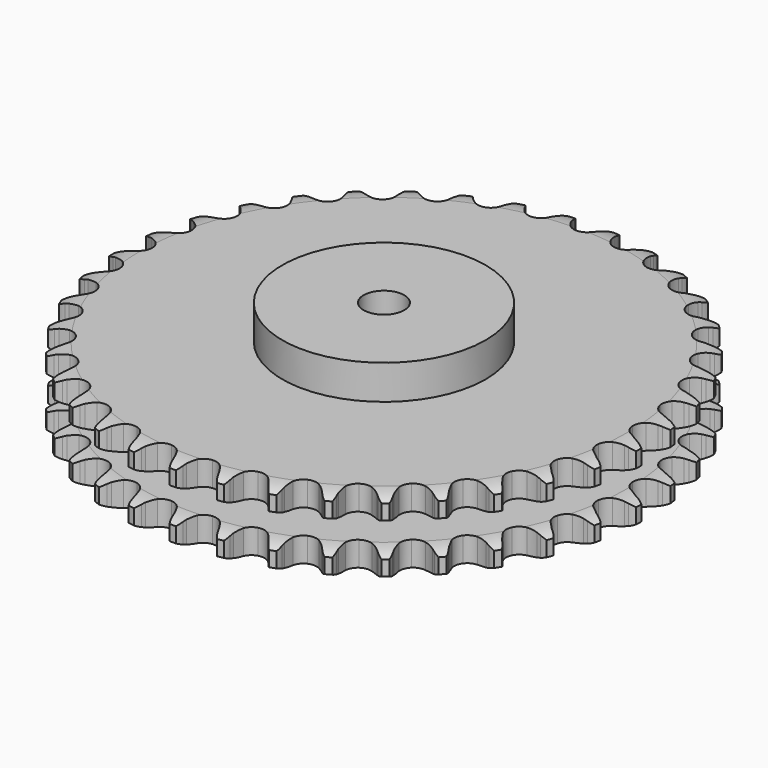
from build123d import *

# Parameters (mm, degrees)
PAD_DEPTH         = 54.6
SKETCH001_R       = 75
PAD001_DEPTH      = 80
SKETCH002_R       = 15
POCKET_DEPTH      = 0.001
POCKET_DEPTH_BACK = 80.001


with BuildPart() as part:
    # Sprocket → Pad (new body)
    with BuildSketch(Plane.XY):
        with BuildLine():
            ThreePointArc((-16.760043, 196.916247), (-13.948654, 193.906801), (-12.029583, 190.262924))
            Line((-12.029583, 190.262924), (-11.100423, 187.728692))
            ThreePointArc((-11.100423, 187.728692), (-9.632855, 184.471838), (-7.713495, 181.459046))
            ThreePointArc((-7.713495, 181.459046), (-4.316661, 178.605349), (0, 177.581386))
            ThreePointArc((0, 177.581386), (4.316661, 178.605349), (7.713495, 181.459046))
            ThreePointArc((7.713495, 181.459046), (9.632855, 184.471838), (11.100423, 187.728692))
            Line((11.100423, 187.728692), (12.029583, 190.262924))
            ThreePointArc((12.029583, 190.262924), (13.948654, 193.906801), (16.760043, 196.916247))
            ThreePointArc((16.760043, 196.916247), (19.022393, 193.474962), (20.298042, 189.559175))
            Line((20.298042, 189.559175), (20.785549, 186.904367))
            ThreePointArc((20.785549, 186.904367), (21.681597, 183.446339), (23.064184, 180.15251))
            ThreePointArc((23.064184, 180.15251), (25.929881, 176.765793), (30.0114, 175.027039))
            ThreePointArc((30.0114, 175.027039), (34.439021, 175.306755), (38.269271, 177.545336))
            Line((38.269271, 177.545336), (42.667057, 183.152405))
            ThreePointArc((42.667057, 183.152405), (43.307294, 184.341043), (44.011138, 185.493156))
            ThreePointArc((44.011138, 185.493156), (46.518424, 188.760294), (49.797972, 191.251325))
            ThreePointArc((49.797972, 191.251325), (51.4462, 187.477201), (52.041729, 183.402153))
            Line((52.041729, 183.402153), (52.073559, 180.703143))
            ThreePointArc((52.073559, 180.703143), (52.372308, 177.143423), (53.178349, 173.663314))
            ThreePointArc((53.178349, 173.663314), (55.430467, 169.841007), (59.159426, 167.437483))
            ThreePointArc((59.159426, 167.437483), (63.570632, 166.964904), (67.72411, 168.52397))
            Line((67.72411, 168.52397), (73.006237, 173.307157))
            ThreePointArc((73.006237, 173.307157), (73.838145, 174.370497), (74.726574, 175.387087))
            ThreePointArc((74.726574, 175.387087), (77.749943, 178.183497), (81.403304, 180.084451))
            ThreePointArc((81.403304, 180.084451), (82.389994, 176.086062), (82.288271, 171.968985))
            Line((82.288271, 171.968985), (81.863508, 169.303418))
            ThreePointArc((81.863508, 169.303418), (81.556364, 165.744413), (81.762669, 162.178141))
            ThreePointArc((81.762669, 162.178141), (83.33642, 158.030204), (86.605544, 155.031056))
            ThreePointArc((86.605544, 155.031056), (90.873432, 153.819777), (95.230649, 154.654476))
            Line((95.230649, 154.654476), (101.24516, 158.476178))
            ThreePointArc((101.24516, 158.476178), (102.244807, 159.383629), (103.292262, 160.235451))
            ThreePointArc((103.292262, 160.235451), (106.744739, 162.480685), (110.666812, 163.736875))
            ThreePointArc((110.666812, 163.736875), (110.963578, 159.629248), (110.167528, 155.588582))
            Line((110.167528, 155.588582), (109.298393, 153.033142))
            ThreePointArc((109.298393, 153.033142), (108.394192, 149.577238), (107.994827, 146.027398))
            ThreePointArc((107.994827, 146.027398), (108.844935, 141.673161), (111.560178, 138.164667))
            ThreePointArc((111.560178, 138.164667), (115.561969, 136.249535), (119.997576, 136.335854))
            Line((119.997576, 136.335854), (126.571445, 139.086127))
            ThreePointArc((126.571445, 139.086127), (127.710073, 139.811584), (128.886419, 140.474133))
            ThreePointArc((128.886419, 140.474133), (132.668682, 142.1036), (136.746637, 142.678887))
            ThreePointArc((136.746637, 142.678887), (136.344942, 138.580191), (134.877467, 134.73218))
            Line((134.877467, 134.73218), (133.588961, 132.360382))
            ThreePointArc((133.588961, 132.360382), (132.113716, 129.106998), (131.120169, 125.675712))
            ThreePointArc((131.120169, 125.675712), (131.22218, 121.240438), (133.305428, 117.323533))
            ThreePointArc((133.305428, 117.323533), (136.925998, 114.759642), (141.312392, 114.095098))
            Line((141.312392, 114.095098), (148.256499, 115.694822))
            ThreePointArc((148.256499, 115.694822), (149.501352, 116.217414), (150.772749, 116.67163))
            ThreePointArc((150.772749, 116.67163), (154.775989, 117.638453), (158.89251, 117.516287))
            ThreePointArc((158.89251, 117.516287), (157.80391, 113.544434), (155.707226, 109.999777))
            Line((155.707226, 109.999777), (154.036419, 107.879854))
            ThreePointArc((154.036419, 107.879854), (152.032569, 104.922585), (150.473423, 101.708565))
            ThreePointArc((150.473423, 101.708565), (149.824402, 97.319848), (151.215724, 93.107214))
            ThreePointArc((151.215724, 93.107214), (154.350916, 89.968323), (158.561907, 88.572034))
            Line((158.561907, 88.572034), (165.676484, 88.975187))
            ThreePointArc((165.676484, 88.975187), (166.99175, 89.279882), (168.321622, 89.512697))
            ThreePointArc((168.321622, 89.512697), (172.430672, 89.789062), (176.467335, 88.972958))
            ThreePointArc((176.467335, 88.972958), (174.723147, 85.24221), (172.057572, 82.102882))
            Line((172.057572, 82.102882), (170.052529, 80.29582))
            ThreePointArc((170.052529, 80.29582), (167.577722, 77.71974), (165.497831, 74.815448))
            ThreePointArc((165.497831, 74.815448), (164.116449, 70.599544), (164.775819, 66.21237))
            ThreePointArc((164.775819, 66.21237), (167.335439, 62.588779), (171.249884, 60.500913))
            Line((171.249884, 60.500913), (178.330258, 59.695898))
            ThreePointArc((178.330258, 59.695898), (179.678099, 59.773929), (181.028188, 59.778646))
            ThreePointArc((181.028188, 59.778646), (185.124839, 59.356603), (188.965516, 57.870039))
            ThreePointArc((188.965516, 57.870039), (186.615917, 54.487723), (183.458135, 51.844036))
            Line((183.458135, 51.844036), (181.176538, 50.401821))
            ThreePointArc((181.176538, 50.401821), (178.301969, 48.28104), (175.761168, 45.770027))
            ThreePointArc((175.761168, 45.770027), (173.687164, 41.848219), (173.595614, 37.412717))
            ThreePointArc((173.595614, 37.412717), (175.506026, 33.40867), (179.011315, 30.689292))
            Line((179.011315, 30.689292), (185.853796, 28.699267))
            ThreePointArc((185.853796, 28.699267), (187.195436, 28.548389), (188.526902, 28.324872))
            ThreePointArc((188.526902, 28.324872), (192.493301, 27.216563), (196.027503, 25.102304))
            ThreePointArc((196.027503, 25.102304), (193.140087, 22.165724), (189.580941, 20.093731))
            Line((189.580941, 20.093731), (187.088427, 19.057853))
            ThreePointArc((187.088427, 19.057853), (183.896793, 17.453382), (180.968175, 15.407885))
            ThreePointArc((180.968175, 15.407885), (178.261216, 11.892998), (177.421379, 7.536768))
            ThreePointArc((177.421379, 7.536768), (178.627624, 3.267454), (181.622915, -0.005205))
            Line((181.622915, -0.005205), (188.030658, -3.12299))
            ThreePointArc((188.030658, -3.12299), (189.327501, -3.498435), (190.602041, -3.943756))
            ThreePointArc((190.602041, -3.943756), (194.324082, -5.706448), (197.450136, -8.387579))
            ThreePointArc((197.450136, -8.387579), (194.107968, -10.793943), (190.249849, -12.234633))
            Line((190.249849, -12.234633), (187.618123, -12.834375))
            ThreePointArc((187.618123, -12.834375), (184.201241, -13.876378), (180.969058, -15.397513))
            ThreePointArc((180.969058, -15.397513), (177.707017, -18.404364), (176.143054, -22.556))
            ThreePointArc((176.143054, -22.556), (176.610431, -26.96776), (179.009556, -30.699552))
            Line((179.009556, -30.699552), (184.79822, -34.855404))
            ThreePointArc((184.79822, -34.855404), (186.012959, -35.444617), (187.193906, -36.09893))
            ThreePointArc((187.193906, -36.09893), (190.564512, -38.465295), (193.192487, -41.636166))
            ThreePointArc((193.192487, -41.636166), (189.491716, -43.443087), (185.445615, -44.21103))
            Line((185.445615, -44.21103), (182.750387, -44.357381))
            ThreePointArc((182.750387, -44.357381), (179.206554, -44.806939), (175.763791, -45.759953))
            ThreePointArc((175.763791, -45.759953), (172.04051, -48.172265), (169.797414, -51.999873))
            ThreePointArc((169.797414, -51.999873), (169.512477, -56.427161), (171.246417, -60.510728))
            Line((171.246417, -60.510728), (176.249474, -65.585091))
            ThreePointArc((176.249474, -65.585091), (177.347163, -66.371121), (178.400543, -67.215604))
            ThreePointArc((178.400543, -67.215604), (181.322749, -70.117566), (183.377043, -73.686957))
            ThreePointArc((183.377043, -73.686957), (179.424133, -74.842454), (175.306448, -74.915555))
            Line((175.306448, -74.915555), (172.625256, -74.604306))
            ThreePointArc((172.625256, -74.604306), (169.056422, -74.448487), (165.502119, -74.805963))
            ThreePointArc((165.502119, -74.805963), (161.424712, -76.554339), (158.567011, -79.947805))
            ThreePointArc((158.567011, -79.947805), (157.537958, -84.263256), (158.55683, -88.581121))
            Line((158.55683, -88.581121), (162.630352, -94.428015))
            ThreePointArc((162.630352, -94.428015), (163.579411, -95.388248), (164.474922, -96.398607))
            ThreePointArc((164.474922, -96.398607), (166.86466, -99.752682), (168.286175, -103.617907))
            ThreePointArc((168.286175, -103.617907), (164.194844, -104.088739), (160.124034, -103.464897))
            Line((160.124034, -103.464897), (157.53401, -102.705))
            ThreePointArc((157.53401, -102.705), (154.042843, -101.948287), (150.479252, -101.699941))
            ThreePointArc((150.479252, -101.699941), (146.165018, -102.734083), (142.774924, -105.595783))
            ThreePointArc((142.774924, -105.595783), (141.031358, -109.675249), (141.305852, -114.103197))
            Line((141.305852, -114.103197), (144.33265, -120.554417))
            ThreePointArc((144.33265, -120.554417), (145.105778, -121.66123), (145.817656, -122.808397))
            ThreePointArc((145.817656, -122.808397), (147.606179, -126.518095), (148.35402, -130.56796))
            ThreePointArc((148.35402, -130.56796), (144.241969, -130.34058), (140.335143, -129.037742))
            Line((140.335143, -129.037742), (137.910797, -127.851059))
            ThreePointArc((137.910797, -127.851059), (134.597733, -126.515221), (131.127372, -125.668197))
            ThreePointArc((131.127372, -125.668197), (126.700423, -125.958355), (122.875463, -128.205964))
            ThreePointArc((122.875463, -128.205964), (120.467544, -131.932086), (119.989762, -136.342731))
            Line((119.989762, -136.342731), (121.882761, -143.212688))
            ThreePointArc((121.882761, -143.212688), (122.457716, -144.43424), (122.965482, -145.685214))
            ThreePointArc((122.965482, -145.685214), (124.101336, -149.643813), (124.153991, -153.76181))
            ThreePointArc((124.153991, -153.76181), (120.139514, -152.842761), (116.509066, -150.898406))
            Line((116.509066, -150.898406), (114.320142, -149.319076))
            ThreePointArc((114.320142, -149.319076), (111.280491, -147.442542), (108.003196, -146.021208))
            ThreePointArc((108.003196, -146.021208), (103.590888, -145.559034), (99.441098, -147.127892))
            ThreePointArc((99.441098, -147.127892), (96.438097, -150.393477), (95.221785, -154.659933))
            Line((95.221785, -154.659933), (95.926527, -161.75099))
            ThreePointArc((95.926527, -161.75099), (96.286768, -163.052139), (96.575815, -164.370932))
            ThreePointArc((96.575815, -164.370932), (97.026324, -168.46455), (96.382276, -172.532212))
            ThreePointArc((96.382276, -172.532212), (92.580865, -170.947933), (89.331235, -168.417997))
            Line((89.331235, -168.417997), (87.440704, -166.491455))
            ThreePointArc((87.440704, -166.491455), (84.761912, -164.128209), (81.771964, -162.173454))
            ThreePointArc((81.771964, -162.173454), (77.501231, -160.972245), (73.145994, -161.817218))
            ThreePointArc((73.145994, -161.817218), (69.634302, -164.528321), (67.714451, -168.527851))
            Line((67.714451, -168.527851), (67.210661, -175.636011))
            ThreePointArc((67.210661, -175.636011), (67.345825, -176.979325), (67.407837, -178.327997))
            ThreePointArc((67.407837, -178.327997), (67.160042, -182.43887), (65.83782, -186.339177))
            ThreePointArc((65.83782, -186.339177), (62.358832, -184.135245), (59.583506, -181.092509))
            Line((59.583506, -181.092509), (58.045757, -178.874178))
            ThreePointArc((58.045757, -178.874178), (55.804887, -176.092207), (53.188302, -173.660266))
            ThreePointArc((53.188302, -173.660266), (49.182005, -171.754577), (44.746613, -171.851358))
            ThreePointArc((44.746613, -171.851358), (40.827254, -173.929985), (38.259095, -177.547529))
            Line((38.259095, -177.547529), (36.561267, -184.468304))
            ThreePointArc((36.561267, -184.468304), (36.467466, -185.815138), (36.300659, -187.154891))
            ThreePointArc((36.300659, -187.154891), (35.361687, -191.164755), (33.399329, -194.785503))
            ThreePointArc((33.399329, -194.785503), (30.34285, -192.025321), (28.121669, -188.55732))
            Line((28.121669, -188.55732), (26.980939, -186.111016))
            ThreePointArc((26.980939, -186.111016), (25.242457, -182.990353), (23.074509, -180.151188))
            ThreePointArc((23.074509, -180.151188), (19.447902, -177.595843), (15.059954, -176.941647))
            ThreePointArc((15.059954, -176.941647), (10.845681, -178.328), (7.703095, -181.459488))
            Line((7.703095, -181.459488), (4.860072, -187.993779))
            ThreePointArc((4.860072, -187.993779), (4.540004, -189.305388), (4.149177, -190.59768))
            ThreePointArc((4.149177, -190.59768), (2.546041, -194.391178), (0, -197.628205))
            ThreePointArc((0, -197.628205), (-2.546041, -194.391178), (-4.149177, -190.59768))
            Line((-4.149177, -190.59768), (-4.860072, -187.993779))
            ThreePointArc((-4.860072, -187.993779), (-6.046152, -184.624199), (-7.703095, -181.459488))
            ThreePointArc((-7.703095, -181.459488), (-10.845681, -178.328), (-15.059954, -176.941647))
            ThreePointArc((-15.059954, -176.941647), (-19.447902, -177.595843), (-23.074509, -180.151188))
            Line((-23.074509, -180.151188), (-26.980939, -186.111016))
            ThreePointArc((-26.980939, -186.111016), (-27.518066, -187.349667), (-28.121669, -188.55732))
            ThreePointArc((-28.121669, -188.55732), (-30.34285, -192.025321), (-33.399329, -194.785503))
            ThreePointArc((-33.399329, -194.785503), (-35.361687, -191.164755), (-36.300659, -187.154891))
            Line((-36.300659, -187.154891), (-36.561267, -184.468304))
            ThreePointArc((-36.561267, -184.468304), (-37.160825, -180.946743), (-38.259095, -177.547529))
            ThreePointArc((-38.259095, -177.547529), (-40.827254, -173.929985), (-44.746613, -171.851358))
            ThreePointArc((-44.746613, -171.851358), (-49.182005, -171.754577), (-53.188302, -173.660266))
            Line((-53.188302, -173.660266), (-58.045757, -178.874178))
            ThreePointArc((-58.045757, -178.874178), (-58.784491, -180.004237), (-59.583506, -181.092509))
            ThreePointArc((-59.583506, -181.092509), (-62.358832, -184.135245), (-65.83782, -186.339177))
            ThreePointArc((-65.83782, -186.339177), (-67.160042, -182.43887), (-67.407837, -178.327997))
            Line((-67.407837, -178.327997), (-67.210661, -175.636011))
            ThreePointArc((-67.210661, -175.636011), (-67.206448, -172.063779), (-67.714451, -168.527851))
            ThreePointArc((-67.714451, -168.527851), (-69.634302, -164.528321), (-73.145994, -161.817218))
            ThreePointArc((-73.145994, -161.817218), (-77.501231, -160.972245), (-81.771964, -162.173454))
            Line((-81.771964, -162.173454), (-87.440704, -166.491455))
            ThreePointArc((-87.440704, -166.491455), (-88.359793, -167.480413), (-89.331235, -168.417997))
            ThreePointArc((-89.331235, -168.417997), (-92.580865, -170.947933), (-96.382276, -172.532212))
            ThreePointArc((-96.382276, -172.532212), (-97.026324, -168.46455), (-96.575815, -164.370932))
            Line((-96.575815, -164.370932), (-95.926527, -161.75099))
            ThreePointArc((-95.926527, -161.75099), (-95.318665, -158.230854), (-95.221785, -154.659933))
            ThreePointArc((-95.221785, -154.659933), (-96.438097, -150.393477), (-99.441098, -147.127892))
            ThreePointArc((-99.441098, -147.127892), (-103.590888, -145.559034), (-108.003196, -146.021208))
            Line((-108.003196, -146.021208), (-114.320142, -149.319076))
            ThreePointArc((-114.320142, -149.319076), (-115.393145, -150.138482), (-116.509066, -150.898406))
            ThreePointArc((-116.509066, -150.898406), (-120.139514, -152.842761), (-124.153991, -153.76181))
            ThreePointArc((-124.153991, -153.76181), (-124.101336, -149.643813), (-122.965482, -145.685214))
            Line((-122.965482, -145.685214), (-121.882761, -143.212688))
            ThreePointArc((-121.882761, -143.212688), (-120.688736, -139.845914), (-119.989762, -136.342731))
            ThreePointArc((-119.989762, -136.342731), (-120.467544, -131.932086), (-122.875463, -128.205964))
            ThreePointArc((-122.875463, -128.205964), (-126.700423, -125.958355), (-131.127372, -125.668197))
            Line((-131.127372, -125.668197), (-137.910797, -127.851059))
            ThreePointArc((-137.910797, -127.851059), (-139.106847, -128.47734), (-140.335143, -129.037742))
            ThreePointArc((-140.335143, -129.037742), (-144.241969, -130.34058), (-148.35402, -130.56796))
            ThreePointArc((-148.35402, -130.56796), (-147.606179, -126.518095), (-145.817656, -122.808397))
            Line((-145.817656, -122.808397), (-144.33265, -120.554417))
            ThreePointArc((-144.33265, -120.554417), (-142.586813, -117.437863), (-141.305852, -114.103197))
            ThreePointArc((-141.305852, -114.103197), (-141.031358, -109.675249), (-142.774924, -105.595783))
            ThreePointArc((-142.774924, -105.595783), (-146.165018, -102.734083), (-150.479252, -101.699941))
            Line((-150.479252, -101.699941), (-157.53401, -102.705))
            ThreePointArc((-157.53401, -102.705), (-158.818697, -103.120139), (-160.124034, -103.464897))
            ThreePointArc((-160.124034, -103.464897), (-164.194844, -104.088739), (-168.286175, -103.617907))
            ThreePointArc((-168.286175, -103.617907), (-166.86466, -99.752682), (-164.474922, -96.398607))
            Line((-164.474922, -96.398607), (-162.630352, -94.428015))
            ThreePointArc((-162.630352, -94.428015), (-160.382927, -91.651338), (-158.55683, -88.581121))
            ThreePointArc((-158.55683, -88.581121), (-157.537958, -84.263256), (-158.567011, -79.947805))
            ThreePointArc((-158.567011, -79.947805), (-161.424712, -76.554339), (-165.502119, -74.805963))
            Line((-165.502119, -74.805963), (-172.625256, -74.604306))
            ThreePointArc((-172.625256, -74.604306), (-173.961623, -74.79636), (-175.306448, -74.915555))
            ThreePointArc((-175.306448, -74.915555), (-179.424133, -74.842454), (-183.377043, -73.686957))
            ThreePointArc((-183.377043, -73.686957), (-181.322749, -70.117566), (-178.400543, -67.215604))
            Line((-178.400543, -67.215604), (-176.249474, -65.585091))
            ThreePointArc((-176.249474, -65.585091), (-173.565116, -63.22817), (-171.246417, -60.510728))
            ThreePointArc((-171.246417, -60.510728), (-169.512477, -56.427161), (-169.797414, -51.999873))
            ThreePointArc((-169.797414, -51.999873), (-172.04051, -48.172265), (-175.763791, -45.759953))
            Line((-175.763791, -45.759953), (-182.750387, -44.357381))
            ThreePointArc((-182.750387, -44.357381), (-184.09999, -44.320826), (-185.445615, -44.21103))
            ThreePointArc((-185.445615, -44.21103), (-189.491716, -43.443087), (-193.192487, -41.636166))
            ThreePointArc((-193.192487, -41.636166), (-190.564512, -38.465295), (-187.193906, -36.09893))
            Line((-187.193906, -36.09893), (-184.79822, -34.855404))
            ThreePointArc((-184.79822, -34.855404), (-181.754152, -32.986044), (-179.009556, -30.699552))
            ThreePointArc((-179.009556, -30.699552), (-176.610431, -26.96776), (-176.143054, -22.556))
            ThreePointArc((-176.143054, -22.556), (-177.707017, -18.404364), (-180.969058, -15.397513))
            Line((-180.969058, -15.397513), (-187.618123, -12.834375))
            ThreePointArc((-187.618123, -12.834375), (-188.942135, -12.570262), (-190.249849, -12.234633))
            ThreePointArc((-190.249849, -12.234633), (-194.107968, -10.793943), (-197.450136, -8.387579))
            ThreePointArc((-197.450136, -8.387579), (-194.324082, -5.706448), (-190.602041, -3.943756))
            Line((-190.602041, -3.943756), (-188.030658, -3.12299))
            ThreePointArc((-188.030658, -3.12299), (-184.714452, -1.794969), (-181.622915, -0.005205))
            ThreePointArc((-181.622915, -0.005205), (-178.627624, 3.267454), (-177.421379, 7.536768))
            ThreePointArc((-177.421379, 7.536768), (-178.261216, 11.892998), (-180.968175, 15.407885))
            Line((-180.968175, 15.407885), (-187.088427, 19.057853))
            ThreePointArc((-187.088427, 19.057853), (-188.348759, 19.541926), (-189.580941, 20.093731))
            ThreePointArc((-189.580941, 20.093731), (-193.140087, 22.165724), (-196.027503, 25.102304))
            ThreePointArc((-196.027503, 25.102304), (-192.493301, 27.216563), (-188.526902, 28.324872))
            Line((-188.526902, 28.324872), (-185.853796, 28.699267))
            ThreePointArc((-185.853796, 28.699267), (-182.360854, 29.447744), (-179.011315, 30.689292))
            ThreePointArc((-179.011315, 30.689292), (-175.506026, 33.40867), (-173.595614, 37.412717))
            ThreePointArc((-173.595614, 37.412717), (-173.687164, 41.848219), (-175.761168, 45.770027))
            Line((-175.761168, 45.770027), (-181.176538, 50.401821))
            ThreePointArc((-181.176538, 50.401821), (-182.336932, 51.091928), (-183.458135, 51.844036))
            ThreePointArc((-183.458135, 51.844036), (-186.615917, 54.487723), (-188.965516, 57.870039))
            ThreePointArc((-188.965516, 57.870039), (-185.124839, 59.356603), (-181.028188, 59.778646))
            Line((-181.028188, 59.778646), (-178.330258, 59.695898))
            ThreePointArc((-178.330258, 59.695898), (-174.761067, 59.843299), (-171.249884, 60.500913))
            ThreePointArc((-171.249884, 60.500913), (-167.335439, 62.588779), (-164.775819, 66.21237))
            ThreePointArc((-164.775819, 66.21237), (-164.116449, 70.599544), (-165.497831, 74.815448))
            Line((-165.497831, 74.815448), (-170.052529, 80.29582))
            ThreePointArc((-170.052529, 80.29582), (-171.079603, 81.172108), (-172.057572, 82.102882))
            ThreePointArc((-172.057572, 82.102882), (-174.723147, 85.24221), (-176.467335, 88.972958))
            ThreePointArc((-176.467335, 88.972958), (-172.430672, 89.789062), (-168.321622, 89.512697))
            Line((-168.321622, 89.512697), (-165.676484, 88.975187))
            ThreePointArc((-165.676484, 88.975187), (-162.133721, 88.517271), (-158.561907, 88.572034))
            ThreePointArc((-158.561907, 88.572034), (-154.350916, 89.968323), (-151.215724, 93.107214))
            ThreePointArc((-151.215724, 93.107214), (-149.824402, 97.319848), (-150.473423, 101.708565))
            Line((-150.473423, 101.708565), (-154.036419, 107.879854))
            ThreePointArc((-154.036419, 107.879854), (-154.900626, 108.917114), (-155.707226, 109.999777))
            ThreePointArc((-155.707226, 109.999777), (-157.80391, 113.544434), (-158.89251, 117.516287))
            ThreePointArc((-158.89251, 117.516287), (-154.775989, 117.638453), (-150.772749, 116.67163))
            Line((-150.772749, 116.67163), (-148.256499, 115.694822))
            ThreePointArc((-148.256499, 115.694822), (-144.842084, 114.644763), (-141.312392, 114.095098))
            ThreePointArc((-141.312392, 114.095098), (-136.925998, 114.759642), (-133.305428, 117.323533))
            ThreePointArc((-133.305428, 117.323533), (-131.22218, 121.240438), (-131.120169, 125.675712))
            Line((-131.120169, 125.675712), (-133.588961, 132.360382))
            ThreePointArc((-133.588961, 132.360382), (-134.26544, 133.528774), (-134.877467, 134.73218))
            ThreePointArc((-134.877467, 134.73218), (-136.344942, 138.580191), (-136.746637, 142.678887))
            ThreePointArc((-136.746637, 142.678887), (-132.668682, 142.1036), (-128.886419, 140.474133))
            Line((-128.886419, 140.474133), (-126.571445, 139.086127))
            ThreePointArc((-126.571445, 139.086127), (-123.383603, 137.474133), (-119.997576, 136.335854))
            ThreePointArc((-119.997576, 136.335854), (-115.561969, 136.249535), (-111.560178, 138.164667))
            ThreePointArc((-111.560178, 138.164667), (-108.844935, 141.673161), (-107.994827, 146.027398))
            Line((-107.994827, 146.027398), (-109.298393, 153.033142))
            ThreePointArc((-109.298393, 153.033142), (-109.767681, 154.299053), (-110.167528, 155.588582))
            ThreePointArc((-110.167528, 155.588582), (-110.963578, 159.629248), (-110.666812, 163.736875))
            ThreePointArc((-110.666812, 163.736875), (-106.744739, 162.480685), (-103.292262, 160.235451))
            Line((-103.292262, 160.235451), (-101.24516, 158.476178))
            ThreePointArc((-101.24516, 158.476178), (-98.375601, 156.348623), (-95.230649, 154.654476))
            ThreePointArc((-95.230649, 154.654476), (-90.873432, 153.819777), (-86.605544, 155.031056))
            ThreePointArc((-86.605544, 155.031056), (-83.33642, 158.030204), (-81.762669, 162.178141))
            Line((-81.762669, 162.178141), (-81.863508, 169.303418))
            ThreePointArc((-81.863508, 169.303418), (-82.112107, 170.63043), (-82.288271, 171.968985))
            ThreePointArc((-82.288271, 171.968985), (-82.389994, 176.086062), (-81.403304, 180.084451))
            ThreePointArc((-81.403304, 180.084451), (-77.749943, 178.183497), (-74.726574, 175.387087))
            Line((-74.726574, 175.387087), (-73.006237, 173.307157))
            ThreePointArc((-73.006237, 173.307157), (-70.537512, 170.725248), (-67.72411, 168.52397))
            ThreePointArc((-67.72411, 168.52397), (-63.570632, 166.964904), (-59.159426, 167.437483))
            ThreePointArc((-59.159426, 167.437483), (-55.430467, 169.841007), (-53.178349, 173.663314))
            Line((-53.178349, 173.663314), (-52.073559, 180.703143))
            ThreePointArc((-52.073559, 180.703143), (-52.094316, 182.05308), (-52.041729, 183.402153))
            ThreePointArc((-52.041729, 183.402153), (-51.4462, 187.477201), (-49.797972, 191.251325))
            ThreePointArc((-49.797972, 191.251325), (-46.518424, 188.760294), (-44.011138, 185.493156))
            Line((-44.011138, 185.493156), (-42.667057, 183.152405))
            ThreePointArc((-42.667057, 183.152405), (-40.670187, 180.190418), (-38.269271, 177.545336))
            ThreePointArc((-38.269271, 177.545336), (-34.439021, 175.306755), (-30.0114, 175.027039))
            ThreePointArc((-30.0114, 175.027039), (-25.929881, 176.765793), (-23.064184, 180.15251))
            Line((-23.064184, 180.15251), (-20.785549, 186.904367))
            ThreePointArc((-20.785549, 186.904367), (-20.577867, 188.238394), (-20.298042, 189.559175))
            ThreePointArc((-20.298042, 189.559175), (-19.022393, 193.474962), (-16.760043, 196.916247))
        make_face()
    extrude(amount=PAD_DEPTH)

    # Sketch → Groove (revolve, cut)
    with BuildSketch(Plane.XZ):
        with BuildLine():
            ThreePointArc((180.198368, 0), (187.681683, 0.887302), (194.75, 3.5))
            Line((194.75, 3.5), (194.75, 14.7))
            ThreePointArc((194.75, 14.7), (187.681683, 17.312698), (180.198368, 18.2))
            Line((75, 18.2), (180.198368, 18.2))
            Line((75, 36.4), (75, 18.2))
            Line((180.198368, 36.4), (75, 36.4))
            ThreePointArc((180.198368, 36.4), (187.681683, 37.287302), (194.75, 39.9))
            Line((194.75, 39.9), (194.75, 51.1))
            ThreePointArc((194.75, 51.1), (187.681683, 53.712698), (180.198368, 54.6))
            Line((180.198368, 54.6), (204.75, 54.6))
            Line((204.75, 54.6), (204.75, 0))
            Line((180.198368, 0), (204.75, 0))
        make_face()
    revolve(axis=Axis((0, 0, 0), (0, 0, 1)), mode=Mode.SUBTRACT)

    # Sketch001 → Pad001 (join)
    with BuildSketch(Plane.XY):
        Circle(SKETCH001_R)
    extrude(amount=PAD001_DEPTH)

    # Sketch002 → Pocket (cut, two sides)
    with BuildSketch(Plane.XY) as pocket_sk:
        Circle(SKETCH002_R)
    extrude(amount=-POCKET_DEPTH, mode=Mode.SUBTRACT)
    extrude(pocket_sk.sketch, amount=POCKET_DEPTH_BACK, mode=Mode.SUBTRACT)


solid = part.part
